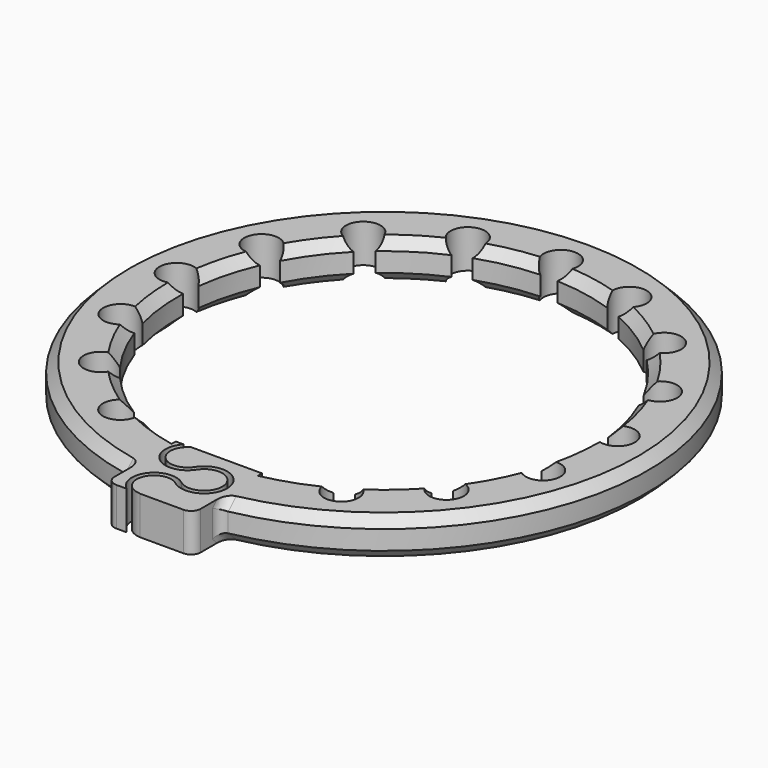
from build123d import *

# Parameters (mm, degrees)
SKETCH_R              = 27.5
SKETCH_R_2            = 21.5
PAD_DEPTH             = 4
CHAMFER_SIZE          = 1
CHAMFER001_SIZE       = 1
CHAMFER002_SIZE       = 1
CHAMFER003_SIZE       = 1
POCKET_DEPTH          = 159.77006
POLARPATTERN_COUNT    = 8
POLARPATTERN_ANGLE    = 150
POLARPATTERN001_COUNT = 8
POLARPATTERN001_ANGLE = 150
SKETCH002_W           = 9
SKETCH002_H           = 9
PAD001_DEPTH          = 4
POCKET001_DEPTH       = 4.001
FILLET_R              = 1
FILLET001_R           = 1
FILLET002_R           = 1
FILLET003_R           = 1


with BuildPart() as part:
    # Sketch → Pad (new body)
    with BuildSketch(Plane.XY):
        Circle(SKETCH_R)
        Circle(SKETCH_R_2, mode=Mode.SUBTRACT)
    extrude(amount=PAD_DEPTH)

    # Chamfer
    chamfer_edges = [part.edges().sort_by_distance(p)[0] for p in [
        (-27.5, 0, 4),
    ]]
    chamfer(chamfer_edges, length=CHAMFER_SIZE)

    # Chamfer001
    chamfer001_edges = [part.edges().sort_by_distance(p)[0] for p in [
        (-21.5, 0, 4),
    ]]
    chamfer(chamfer001_edges, length=CHAMFER001_SIZE)

    # Chamfer002
    chamfer002_edges = [part.edges().sort_by_distance(p)[0] for p in [
        (-21.5, 0, 0),
    ]]
    chamfer(chamfer002_edges, length=CHAMFER002_SIZE)

    # Chamfer003
    chamfer003_edges = [part.edges().sort_by_distance(p)[0] for p in [
        (-27.5, 0, 0),
    ]]
    chamfer(chamfer003_edges, length=CHAMFER003_SIZE)

    # Sketch001 → Pocket (cut, through all)
    with BuildSketch(Plane.XY):
        with BuildLine():
            Line((0, 0), (0.9, 21.481155))
            ThreePointArc((0.9, 21.481155), (0, 24.84), (-0.9, 21.481155))
            Line((-0.9, 21.481155), (0, 0))
        make_face()
    pocket = extrude(amount=POCKET_DEPTH, mode=Mode.SUBTRACT)

    # PolarPattern: Pocket ×8 about axis
    polarpattern_axis = Axis((0, 0, 0), (0, 0, 1))
    for i in range(1, POLARPATTERN_COUNT):
        add(pocket.rotate(polarpattern_axis, i * POLARPATTERN_ANGLE / (POLARPATTERN_COUNT - 1)), mode=Mode.SUBTRACT)

    # PolarPattern001: Pocket ×8 about axis
    polarpattern001_axis = Axis((0, 0, 0), (0, 0, -1))
    for i in range(1, POLARPATTERN001_COUNT):
        add(pocket.rotate(polarpattern001_axis, i * POLARPATTERN001_ANGLE / (POLARPATTERN001_COUNT - 1)), mode=Mode.SUBTRACT)

    # Sketch002 → Pad001 (join)
    with BuildSketch(Plane.XY):
        with Locations((0, -26)):
            Rectangle(SKETCH002_W, SKETCH002_H)
    extrude(amount=PAD001_DEPTH)

    # Sketch003 → Pocket001 (cut, through all)
    with BuildSketch(Plane.XY):
        with BuildLine():
            ThreePointArc((-2.005232, -20.773878), (-4.023381, -24.17709), (-0.069193, -24.315551))
            ThreePointArc((0.374353, -26.849308), (3.401685, -25.013659), (-0.069193, -24.315551))
            ThreePointArc((0.374353, -26.849308), (-3.202912, -27.936122), (-1.024763, -30.974814))
            Line((-1.024763, -30.474814), (-1.024763, -30.974814))
            ThreePointArc((0.070198, -27.246157), (-2.729401, -28.096707), (-1.024763, -30.474814))
            ThreePointArc((0.070198, -27.246157), (3.894196, -24.927442), (-0.490071, -24.045622))
            ThreePointArc((-2.005232, -21.273878), (-3.584653, -23.937262), (-0.490071, -24.045622))
            Line((-2.005232, -20.773878), (-2.005232, -21.273878))
        make_face()
    extrude(amount=POCKET001_DEPTH, mode=Mode.SUBTRACT)

    # Fillet
    fillet_edges = [part.edges().sort_by_distance(p)[0] for p in [
        (4.5, -30.5, 2),
    ]]
    fillet(fillet_edges, radius=FILLET_R)

    # Fillet001
    fillet001_edges = [part.edges().sort_by_distance(p)[0] for p in [
        (-4.5, -30.5, 2),
    ]]
    fillet(fillet001_edges, radius=FILLET001_R)

    # Fillet002
    fillet002_edges = [part.edges().sort_by_distance(p)[0] for p in [
        (-4.5, -26.622291, 0.499933),
        (-4.5, -27.12932, 2),
        (-4.5, -26.622291, 3.500067),
    ]]
    fillet(fillet002_edges, radius=FILLET002_R)

    # Fillet003
    fillet003_edges = [part.edges().sort_by_distance(p)[0] for p in [
        (4.5, -26.622291, 0.499933),
        (4.5, -27.12932, 2),
        (4.5, -26.622291, 3.500067),
    ]]
    fillet(fillet003_edges, radius=FILLET003_R)


solid = part.part
